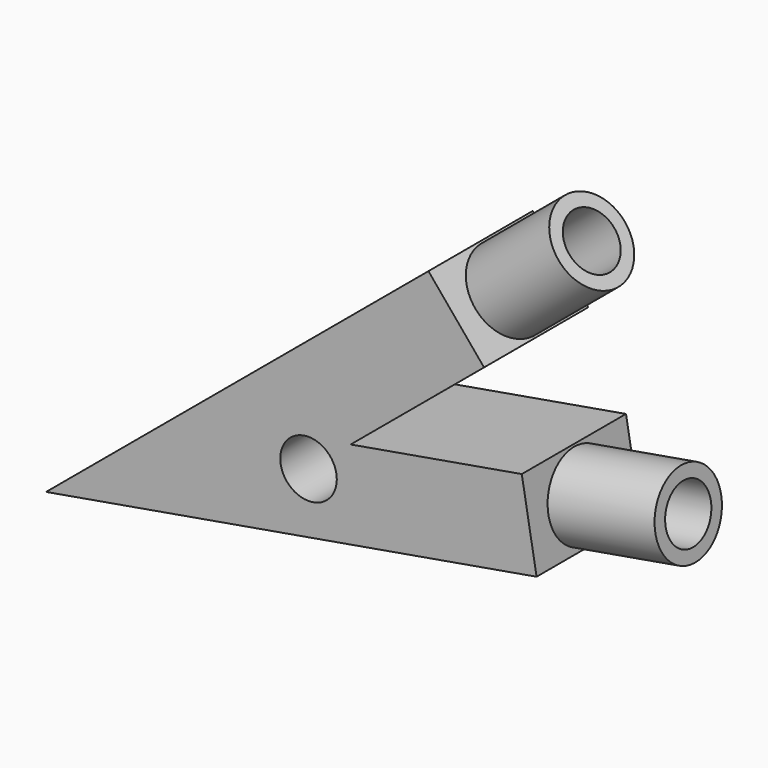
from build123d import *

# Parameters (mm, degrees)
F0_R     = 6.50875
F1_DEPTH = 30
F3_R     = 9.4868068264
F3_R_2   = 6.50875
F4_DEPTH = 25
F2_R     = 9.5596537672
F2_R_2   = 6.50875
F5_DEPTH = 25


with BuildPart() as f1:
    # F0 (on Front) → F1 (new body)
    with BuildSketch(Plane.XZ):
        Polygon((-0.6586156459, -22.1222693219), (-40.0733649731, -28.9397127926), (-9.3479125073, -3.3282588946), (-22.1536394563, 12.0344673383), (-110.213566766, -61.3686101614), (-94.3012574901, -58.6163087811), (2.7501060895, -41.8296439855), align=None)
        with Locations((-49.7683258624, -37.0436192746)):
            Circle(F0_R, mode=Mode.SUBTRACT)
    extrude(amount=F1_DEPTH)

    # F3 (on face) → F4 (join)
    with BuildSketch(Plane(origin=(-4.3547506781, 0, -0.7532273345), x_dir=(0, 1, 0), z_dir=(0.9853687332, 0, 0.1704360868))):
        with Locations((-15, -31.6863406234)):
            Circle(F3_R)
        with Locations((-15, -31.6863406234)):
            Circle(F3_R_2, mode=Mode.SUBTRACT)
    extrude(amount=F4_DEPTH)

    # F2 (on face) → F5 (join)
    with BuildSketch(Plane(origin=(-7.1525087674, 0, -5.9620325773), x_dir=(0, 1, 0), z_dir=(0.7681363116, 0, 0.6402863475))):
        with Locations((-15, 13.4287842441)):
            Circle(F2_R)
        with Locations((-15, 13.4287842441)):
            Circle(F2_R_2, mode=Mode.SUBTRACT)
    extrude(amount=F5_DEPTH)


solid = f1.part
